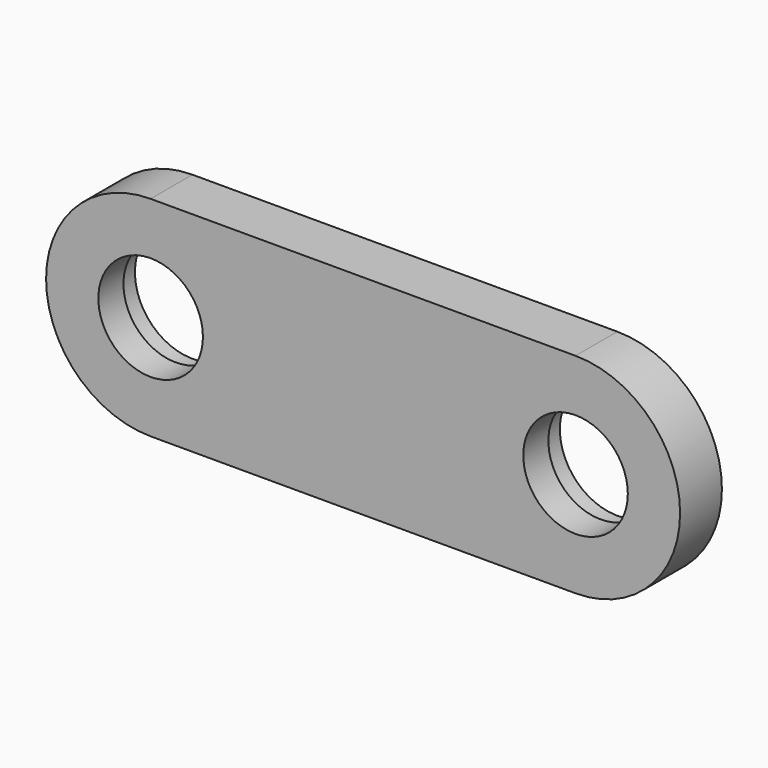
from build123d import *

# Parameters (mm, degrees)
F0_R     = 5.5
F0_R_2   = 5
F1_DEPTH = 5
F2_DEPTH = 2


with BuildPart() as f1:
    # F0 (on Front) → F1 (new body)
    with BuildSketch(Plane.XZ):
        with BuildLine():
            Line((40.64, 10), (0, 10))
            ThreePointArc((0, 10), (-10, 0), (0, -10))
            Line((0, -10), (40.64, -10))
            ThreePointArc((40.64, -10), (50.64, 0), (40.64, 10))
        make_face()
        Circle(F0_R, mode=Mode.SUBTRACT)
        with Locations((40.64, 0)):
            Circle(F0_R, mode=Mode.SUBTRACT)
        Circle(F0_R)
        Circle(F0_R_2, mode=Mode.SUBTRACT)
        with Locations((40.64, 0)):
            Circle(F0_R)
        with Locations((40.64, 0)):
            Circle(F0_R_2, mode=Mode.SUBTRACT)
    extrude(amount=F1_DEPTH)

    # F0 (on Front) → F2 (cut)
    with BuildSketch(Plane.XZ):
        with Locations((40.64, 0)):
            Circle(F0_R)
        with Locations((40.64, 0)):
            Circle(F0_R_2, mode=Mode.SUBTRACT)
        Circle(F0_R)
        Circle(F0_R_2, mode=Mode.SUBTRACT)
    extrude(amount=F2_DEPTH, mode=Mode.SUBTRACT)


solid = f1.part
